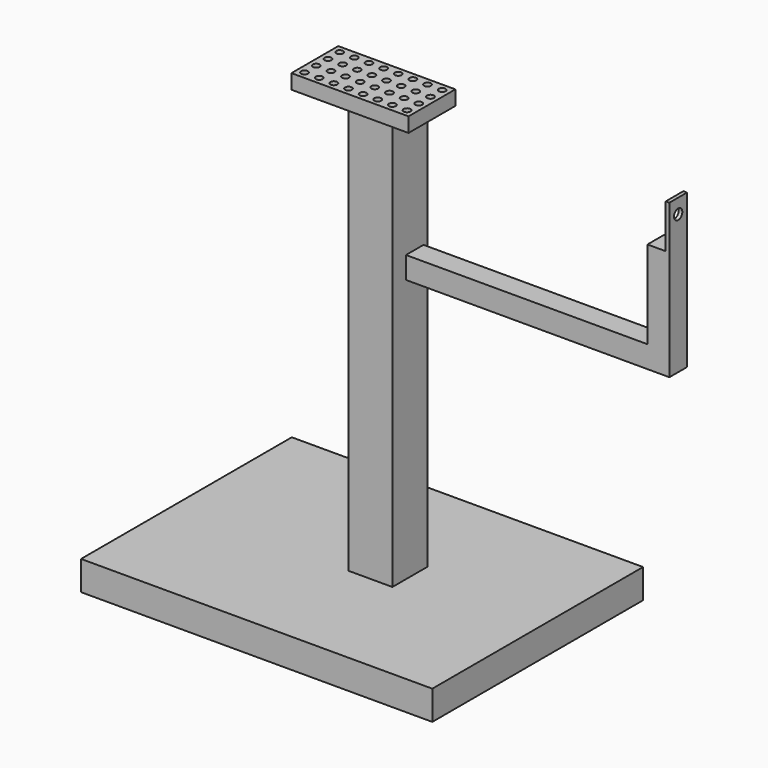
from build123d import *

# Parameters (mm, degrees)
F0_W      = 609.6
F0_H      = 457.2
F1_DEPTH  = 50.8
F2_W      = 76.2
F2_H      = 76.2
F3_DEPTH  = 711.2
F4_W      = 203.2
F4_H      = 101.6
F5_DEPTH  = 25.4
F6_R      = 5.980424
F7_DEPTH  = 25.4
F8_W      = 38.1
F8_H      = 38.1
F9_DEPTH  = 457.2
F10_W     = 38.1
F10_H     = 38.1
F11_DEPTH = 152.4
F12_W     = 6.35
F12_H     = 38.1
F13_DEPTH = 76.2
F14_R     = 9
F15_DEPTH = 25.4


with BuildPart() as f1:
    # F0 (on Top) → F1 (new body)
    with BuildSketch(Plane.XY):
        Rectangle(F0_W, F0_H)
    extrude(amount=F1_DEPTH)

    # F2 (on face) → F3 (join)
    with BuildSketch(Plane.XY.offset(50.8)):
        with Locations((38.1, 8.698421)):
            Rectangle(F2_W, F2_H)
    extrude(amount=F3_DEPTH)

    # F4 (on face) → F5 (join)
    with BuildSketch(Plane.XY.offset(762)):
        with Locations((12.7, 8.698421)):
            Rectangle(F4_W, F4_H)
    extrude(amount=F5_DEPTH)

    # F6 (on face) → F7 (cut)
    with BuildSketch(Plane.XY.offset(787.4)):
        with Locations((-76.2, 46.798421)):
            Circle(F6_R)
        with Locations((-76.2, 21.398421)):
            Circle(F6_R)
        with Locations((-76.2, -4.001579)):
            Circle(F6_R)
        with Locations((-76.2, -29.401579)):
            Circle(F6_R)
        with Locations((-50.8, 46.798421)):
            Circle(F6_R)
        with Locations((-50.8, 21.398421)):
            Circle(F6_R)
        with Locations((-50.8, -4.001579)):
            Circle(F6_R)
        with Locations((-50.8, -29.401579)):
            Circle(F6_R)
        with Locations((-25.4, 46.798421)):
            Circle(F6_R)
        with Locations((-25.4, 21.398421)):
            Circle(F6_R)
        with Locations((-25.4, -4.001579)):
            Circle(F6_R)
        with Locations((-25.4, -29.401579)):
            Circle(F6_R)
        with Locations((0, 46.798421)):
            Circle(F6_R)
        with Locations((0, 21.398421)):
            Circle(F6_R)
        with Locations((0, -4.001579)):
            Circle(F6_R)
        with Locations((0, -29.401579)):
            Circle(F6_R)
        with Locations((25.4, 46.798421)):
            Circle(F6_R)
        with Locations((25.4, 21.398421)):
            Circle(F6_R)
        with Locations((25.4, -4.001579)):
            Circle(F6_R)
        with Locations((25.4, -29.401579)):
            Circle(F6_R)
        with Locations((50.8, 46.798421)):
            Circle(F6_R)
        with Locations((50.8, 21.398421)):
            Circle(F6_R)
        with Locations((50.8, -4.001579)):
            Circle(F6_R)
        with Locations((50.8, -29.401579)):
            Circle(F6_R)
        with Locations((76.2, 46.798421)):
            Circle(F6_R)
        with Locations((76.2, 21.398421)):
            Circle(F6_R)
        with Locations((76.2, -4.001579)):
            Circle(F6_R)
        with Locations((76.2, -29.401579)):
            Circle(F6_R)
        with Locations((101.6, 46.798421)):
            Circle(F6_R)
        with Locations((101.6, 21.398421)):
            Circle(F6_R)
        with Locations((101.6, -4.001579)):
            Circle(F6_R)
        with Locations((101.6, -29.401579)):
            Circle(F6_R)
    extrude(amount=-F7_DEPTH, mode=Mode.SUBTRACT)

    # F8 (on face) → F9 (join)
    with BuildSketch(Plane.YZ.offset(76.2)):
        with Locations((19.05, 527.05)):
            Rectangle(F8_W, F8_H)
    extrude(amount=F9_DEPTH)

    # F10 (on face) → F11 (join)
    with BuildSketch(Plane.XY.offset(546.1)):
        with Locations((514.35, 19.05)):
            Rectangle(F10_W, F10_H)
    extrude(amount=F11_DEPTH)

    # F12 (on face) → F13 (join)
    with BuildSketch(Plane.XY.offset(698.5)):
        with Locations((530.225, 19.05)):
            Rectangle(F12_W, F12_H)
    extrude(amount=F13_DEPTH)

    # F14 (on face) → F15 (cut)
    with BuildSketch(Plane.YZ.offset(533.4)):
        with Locations((19.05, 749.3)):
            Circle(F14_R)
    extrude(amount=-F15_DEPTH, mode=Mode.SUBTRACT)


solid = f1.part
